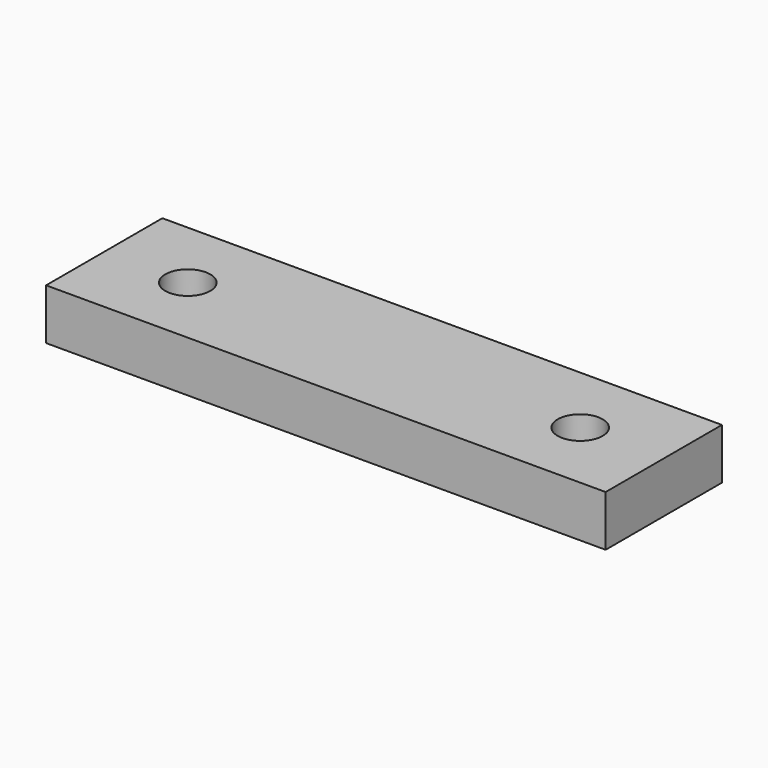
from build123d import *

# Parameters (mm, degrees)
SKETCH_W  = 77
SKETCH_H  = 20
SKETCH_R  = 3.1
PAD_DEPTH = 7


with BuildPart() as part:
    # Sketch → Pad (new body)
    with BuildSketch(Plane.XY):
        with Locations((38.5, 10)):
            Rectangle(SKETCH_W, SKETCH_H)
        with Locations((11.5, 10)):
            Circle(SKETCH_R, mode=Mode.SUBTRACT)
        with Locations((65.5, 10)):
            Circle(SKETCH_R, mode=Mode.SUBTRACT)
    extrude(amount=PAD_DEPTH)


solid = part.part
